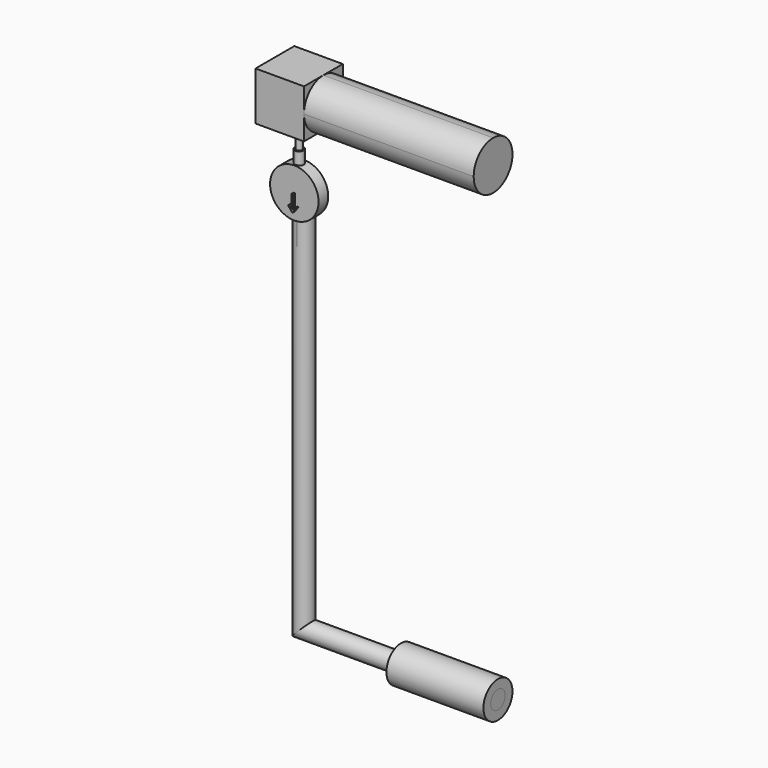
from build123d import *

# Parameters (mm, degrees)
F0_R      = 12.7
F1_DEPTH  = 6.35
F2_R      = 2.38125
F3_DEPTH  = 19.05
F4_R      = 1.5875
F5_DEPTH  = 6.35
F5_FACE_R = 1.5875
F10_DEPTH = 25.4
F12_DEPTH = 1.27
F15_R     = 4.7625
F17_R     = 9.525
F17_R_2   = 4.7625
F18_DEPTH = 50.8
F19_W     = 25.4
F19_H     = 25.4
F20_DEPTH = 25.4
F22_DEPTH = 88.9


with BuildPart() as f1:
    # F0 (on Front) → F1 (new body)
    with BuildSketch(Plane.XZ):
        Circle(F0_R)
    extrude(amount=F1_DEPTH)

    # F2 (on Top) → F3 (join)
    with BuildSketch(Plane.XY):
        with Locations((0, -3.175)):
            Circle(F2_R)
    extrude(amount=F3_DEPTH)


with BuildPart() as f5:
    # F4 (on face) → F5 (new body)
    with BuildSketch(Plane.XY.offset(19.05)):
        with Locations((0, -3.175)):
            Circle(F4_R)
    extrude(amount=F5_DEPTH)


with BuildPart() as f8:
    # F5_face (on face) → F8 section 0
    with BuildSketch(Plane(origin=(0, -3.175, 25.4), x_dir=(1, 0, 0), z_dir=(0, 0, 1)), mode=Mode.PRIVATE) as f8_s0:
        Circle(F5_FACE_R)
    loft([f8_s0.sketch, Vertex(0, -3.1537474133, 31.75)])


with BuildPart() as f9_1:
    # F9: instance of F5
    add(f5.part.mirror(Plane.XY))


with BuildPart() as f10:
    # F10 (new): a face of the model
    f10_faces = [f9_1.part.faces().sort_by_distance(p)[0] for p in [
        (0, -3.175, -19.05),
    ]]
    extrude(f10_faces, amount=F10_DEPTH)


with BuildPart() as f12:
    # F11 (on face) → F12 (new body)
    with BuildSketch(Plane.XZ.offset(6.35)):
        Polygon((-2.2543081655, -5.8581982868), (0, -8.7085170671), (2.2543081655, -5.8581982868), (1.8381207473, -5.5290369658), (0.3738755768, -7.3804100712), (0.3738755768, 0), (-0.3738755768, 0), (-0.3738755768, -7.3804100712), (-1.8381207473, -5.5290369658), align=None)
    extrude(amount=F12_DEPTH)


with BuildPart() as f16:
    # F16: sweep along a path in F13
    with BuildLine(Plane.XZ) as f16_path:
        Line((101.6, -203.2), (0, -203.2))
        Line((0, -203.2), (0, 0))
    # F15 (on line) → F16 (sweep)
    with BuildSketch(Plane.YZ.offset(101.6)):
        with Locations((0, -203.2228261232)):
            Circle(F15_R)
    sweep(path=f16_path.line, transition=Transition.RIGHT)


with BuildPart() as f18:
    # F17 (on face) → F18 (new body)
    with BuildSketch(Plane.YZ.offset(101.6)):
        with Locations((0, -203.2228261232)):
            Circle(F17_R)
        with Locations((0, -203.2228261232)):
            Circle(F17_R_2, mode=Mode.SUBTRACT)
    extrude(amount=-F18_DEPTH)


with BuildPart() as f20:
    # F19 (on offset) → F20 (new body)
    with BuildSketch(Plane.XY.offset(31.75)):
        with Locations((0, -3.1788726337)):
            Rectangle(F19_W, F19_H)
    extrude(amount=F20_DEPTH)

    # F21 (on face) → F22 (join)
    with BuildSketch(Plane.YZ.offset(12.7)):
        with BuildLine():
            ThreePointArc((-3.1788726337, 31.75), (5.8013834873, 35.4697438789), (9.5211273663, 44.45))
            ThreePointArc((9.5211273663, 44.45), (5.8013834873, 53.4302561211), (-3.1788726337, 57.15))
            ThreePointArc((-3.1788726337, 57.15), (-12.1591287548, 53.4302561211), (-15.8788726337, 44.45))
            ThreePointArc((-15.8788726337, 44.45), (-12.1591287548, 35.4697438789), (-3.1788726337, 31.75))
        make_face()
    extrude(amount=F22_DEPTH)


solid = Compound([f1.part, f5.part, f8.part, f9_1.part, f10.part, f12.part, f16.part, f18.part, f20.part])
